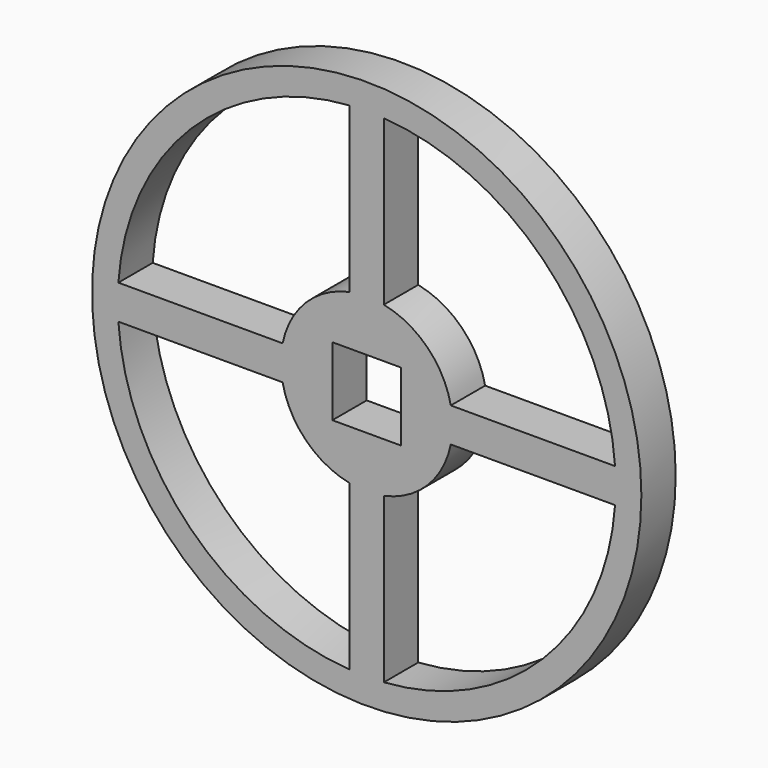
from build123d import *

# Parameters (mm, degrees)
F0_R     = 64
F0_W     = 16
F0_H     = 16
F1_DEPTH = 10


with BuildPart() as f1:
    # F0 (on Front) → F1 (new body)
    with BuildSketch(Plane.XZ):
        Circle(F0_R)
        with BuildLine():
            ThreePointArc((-19.595918, -4), (-14.142136, -14.142136), (-4, -19.595918))
            Line((-4, -19.595918), (-4, -57.861905))
            ThreePointArc((-4, -57.861905), (-41.012193, -41.012193), (-57.861905, -4))
            Line((-57.861905, -4), (-19.595918, -4))
        make_face(mode=Mode.SUBTRACT)
        with BuildLine():
            Line((19.595918, -4), (57.861905, -4))
            ThreePointArc((57.861905, -4), (41.012193, -41.012193), (4, -57.861905))
            Line((4, -57.861905), (4, -19.595918))
            ThreePointArc((4, -19.595918), (14.142136, -14.142136), (19.595918, -4))
        make_face(mode=Mode.SUBTRACT)
        with BuildLine():
            ThreePointArc((-57.861905, 4), (-41.012193, 41.012193), (-4, 57.861905))
            Line((-4, 57.861905), (-4, 19.595918))
            ThreePointArc((-4, 19.595918), (-14.142136, 14.142136), (-19.595918, 4))
            Line((-19.595918, 4), (-57.861905, 4))
        make_face(mode=Mode.SUBTRACT)
        Rectangle(F0_W, F0_H, mode=Mode.SUBTRACT)
        with BuildLine():
            Line((4, 19.595918), (4, 57.861905))
            ThreePointArc((4, 57.861905), (41.012193, 41.012193), (57.861905, 4))
            Line((57.861905, 4), (19.595918, 4))
            ThreePointArc((19.595918, 4), (14.142136, 14.142136), (4, 19.595918))
        make_face(mode=Mode.SUBTRACT)
    extrude(amount=F1_DEPTH)


solid = f1.part
